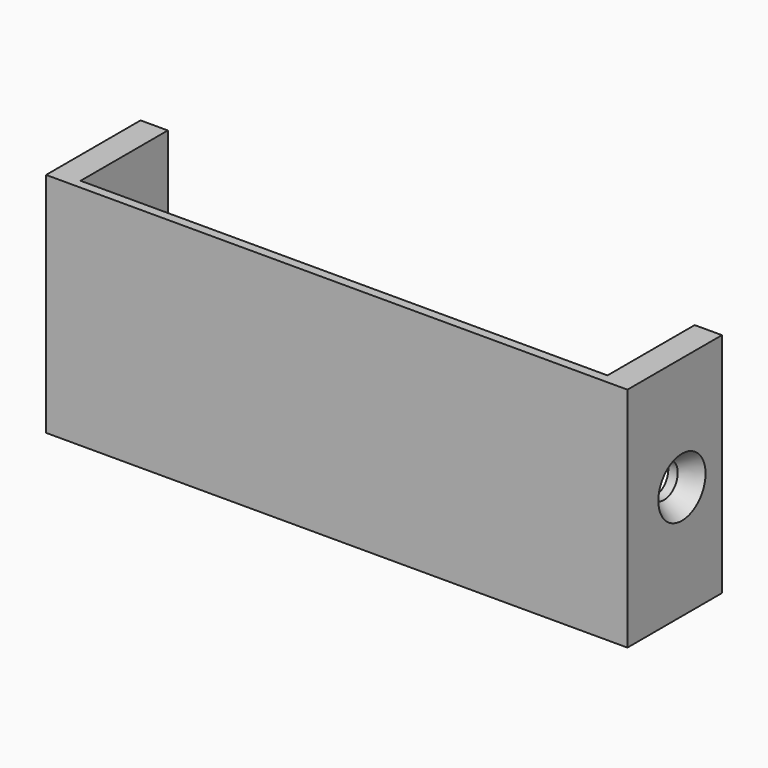
from build123d import *

# Parameters (mm, degrees)
F1_DEPTH       = 25
F3_D           = 3.75
F3_DEPTH       = 6
F3_CSINK_D     = 6.5
F3_CSINK_ANGLE = 70
F5_D           = 3.75
F5_DEPTH       = 6
F5_CSINK_D     = 6.5
F5_CSINK_ANGLE = 70


with BuildPart() as f1:
    # F0 (on Top) → F1 (new body)
    with BuildSketch(Plane.XY):
        Polygon((-23.20677, 6.948909), (-26.20677, 6.948909), (-26.20677, -6.051091), (37.79323, -6.051091), (37.79323, 6.948909), (34.79323, 6.948909), (34.79323, -5.051091), (-23.20677, -5.051091), align=None)
    extrude(amount=F1_DEPTH)

    # F3
    with Locations(Plane(origin=(-26.20677, 0, 0), x_dir=(0, -1, 0), z_dir=(-1, 0, 0))):
        with Locations((-1.448909, 12.5)):
            CounterSinkHole(F3_D / 2, F3_CSINK_D / 2, depth=F3_DEPTH, counter_sink_angle=F3_CSINK_ANGLE)

    # F5
    with Locations(Plane.YZ.offset(37.79323)):
        with Locations((1.448909, 12.5)):
            CounterSinkHole(F5_D / 2, F5_CSINK_D / 2, depth=F5_DEPTH, counter_sink_angle=F5_CSINK_ANGLE)


solid = f1.part
